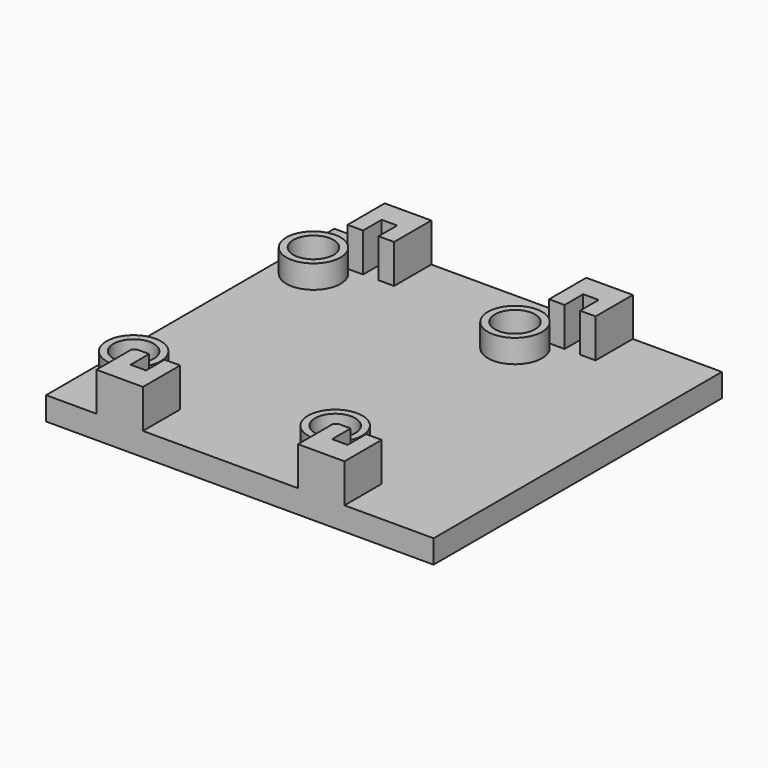
from build123d import *

# Parameters (mm, degrees)
F0_W     = 50
F0_H     = 46.5
F1_DEPTH = 3
F3_DEPTH = 5
F2_R     = 3.5
F2_R_2   = 2.6
F4_DEPTH = 3


with BuildPart() as f1:
    # F0 (on Top) → F1 (new body)
    with BuildSketch(Plane.XY):
        Rectangle(F0_W, F0_H)
    extrude(amount=F1_DEPTH)

    # F2 (on face) → F3 (join)
    with BuildSketch(Plane.XY.offset(3)):
        Polygon((-12.5, 23.25), (-18.5, 23.25), (-18.5, 17.25), (-16.5, 17.25), (-16.5, 20.25), (-14.5, 20.25), (-14.5, 17.25), (-12.5, 17.25), align=None)
        Polygon((13.5, 23.25), (7.5, 23.25), (7.5, 17.25), (9.5, 17.25), (9.5, 20.25), (11.5, 20.25), (11.5, 17.25), (13.5, 17.25), align=None)
        with BuildLine():
            Line((9.5, -20.25), (9.5, -17.25))
            Line((9.5, -17.25), (7.94949, -17.25))
            ThreePointArc((7.94949, -17.25), (7.732518, -17.445526), (7.5, -17.622281))
            Line((7.5, -17.622281), (7.5, -23.25))
            Line((7.5, -23.25), (13.5, -23.25))
            Line((13.5, -23.25), (13.5, -17.25))
            Line((13.5, -17.25), (11.5, -17.25))
            Line((11.5, -17.25), (11.5, -20.25))
            Line((11.5, -20.25), (9.5, -20.25))
        make_face()
        with BuildLine():
            Line((-16.5, -20.25), (-16.5, -17.25))
            Line((-16.5, -17.25), (-18.05051, -17.25))
            ThreePointArc((-18.05051, -17.25), (-18.267482, -17.445526), (-18.5, -17.622281))
            Line((-18.5, -17.622281), (-18.5, -23.25))
            Line((-18.5, -23.25), (-12.5, -23.25))
            Line((-12.5, -23.25), (-12.5, -17.25))
            Line((-12.5, -17.25), (-14.5, -17.25))
            Line((-14.5, -17.25), (-14.5, -20.25))
            Line((-14.5, -20.25), (-16.5, -20.25))
        make_face()
    extrude(amount=F3_DEPTH)


with BuildPart() as f4:
    # F2 (on face) → F4 (new body)
    with BuildSketch(Plane.XY.offset(3)):
        with Locations((-20.5, 14.25)):
            Circle(F2_R)
        with Locations((-20.5, 14.25)):
            Circle(F2_R_2, mode=Mode.SUBTRACT)
        with Locations((5.5, 14.25)):
            Circle(F2_R)
        with Locations((5.5, 14.25)):
            Circle(F2_R_2, mode=Mode.SUBTRACT)
        with BuildLine():
            Line((7.5, -17.25), (7.94949, -17.25))
            ThreePointArc((7.94949, -17.25), (8.726702, -16.105874), (9, -14.75))
            ThreePointArc((9, -14.75), (2.397582, -13.129815), (7.5, -17.622281))
            Line((7.5, -17.622281), (7.5, -17.25))
        make_face()
        with Locations((5.5, -14.75)):
            Circle(F2_R_2, mode=Mode.SUBTRACT)
        with BuildLine():
            Line((-18.5, -17.25), (-18.05051, -17.25))
            ThreePointArc((-18.05051, -17.25), (-17.273298, -16.105874), (-17, -14.75))
            ThreePointArc((-17, -14.75), (-23.602418, -13.129815), (-18.5, -17.622281))
            Line((-18.5, -17.622281), (-18.5, -17.25))
        make_face()
        with Locations((-20.5, -14.75)):
            Circle(F2_R_2, mode=Mode.SUBTRACT)
    extrude(amount=F4_DEPTH)


solid = Compound([f1.part, f4.part])
